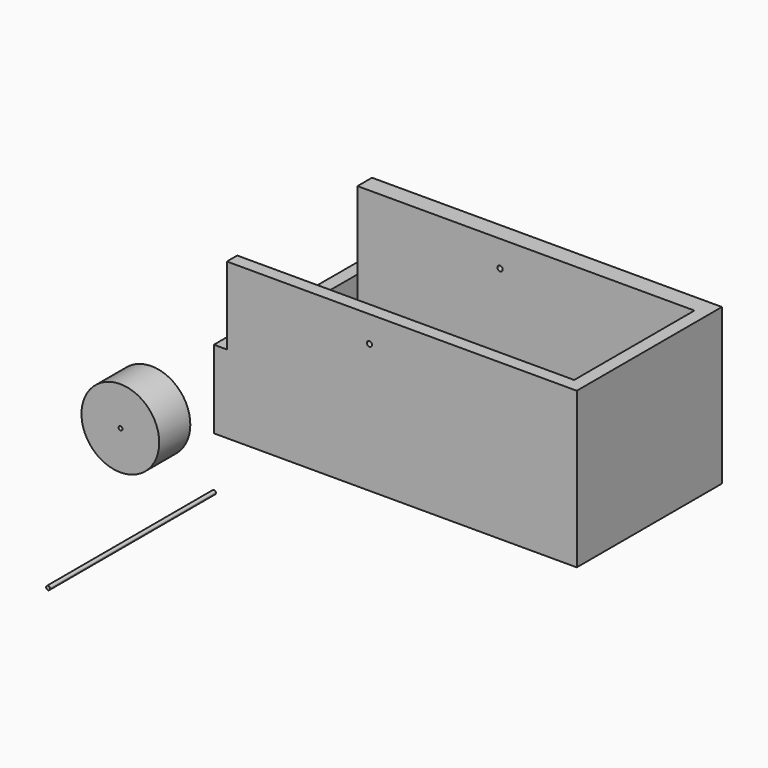
from build123d import *

# Parameters (mm, degrees)
F0_W      = 177.8
F0_H      = 76.2
F1_DEPTH  = 6.35
F2_W      = 6.35
F2_H      = 80.01
F2_H_2    = 8.89
F2_W_2    = 165.1
F3_DEPTH  = 76.2
F5_DEPTH  = 6.35
F6_W      = 88.9
F6_H      = 38.1
F7_DEPTH  = 6.35
F9_R      = 19.05
F10_DEPTH = 19.05
F11_DEPTH = 254
F14_DEPTH = 6.35
F15_DEPTH = 6.35
F16_R     = 1.27
F17_DEPTH = 76.2
F18_DEPTH = 76.2
F20_DEPTH = 101.6
F21_R     = 0.9525
F22_DEPTH = 76.2
F23_DEPTH = 101.6


with BuildPart() as f1:
    # F0 (on Front) → F1 (new body)
    with BuildSketch(Plane.XZ):
        with Locations((88.9, 38.1)):
            Rectangle(F0_W, F0_H)
    extrude(amount=-F1_DEPTH)

    # F2 (on Top) → F3 (join)
    with BuildSketch(Plane.XY):
        with Locations((3.175, 40.005)):
            Rectangle(F2_W, F2_H)
        with Locations((3.175, 84.455)):
            Rectangle(F2_W, F2_H_2)
        with Locations((88.9, 84.455)):
            Rectangle(F2_W_2, F2_H_2)
        with Locations((174.625, 40.005)):
            Rectangle(F2_W, F2_H)
        with Locations((174.625, 84.455)):
            Rectangle(F2_W, F2_H_2)
    extrude(amount=F3_DEPTH)

    # F4 (on Top) → F5 (join)
    with BuildSketch(Plane.XY):
        Polygon((37.7295836806, 0), (177.4295836806, 0), (177.5142401457, 88.7624174356), (37.7295836806, 88.7624174356), align=None)
    extrude(amount=F5_DEPTH)

    # F6 (on Right) → F7 (cut)
    with BuildSketch(Plane.YZ):
        with Locations((44.45, 57.15)):
            Rectangle(F6_W, F6_H)
    extrude(amount=-F7_DEPTH, mode=Mode.SUBTRACT)

    # F8 (on Front) → F11 (cut)
    with BuildSketch(Plane.XZ):
        with BuildLine():
            ThreePointArc((76.2, 64.6429983449), (75.3019743879, 62.4749727328), (77.47, 63.3729983449))
            ThreePointArc((77.47, 63.3729983449), (77.0980256121, 64.271023957), (76.2, 64.6429983449))
        make_face()
    extrude(amount=-F11_DEPTH, mode=Mode.SUBTRACT)

    # F12 (on Right) → F14 (cut)
    with BuildSketch(Plane.YZ):
        Polygon((0, 38.2467526443), (88.8998788732, 38.1), (88.9627729493, 76.2), (0, 76.2), align=None)
    extrude(amount=-F14_DEPTH, mode=Mode.SUBTRACT)

    # F13 (on face) → F15 (cut)
    with BuildSketch(Plane.YZ):
        Polygon((0, 76.2), (0, 38.2467526443), (88.8998788732, 38.1), (88.9627729493, 76.2), align=None)
    extrude(amount=F15_DEPTH, mode=Mode.SUBTRACT)

    # F16 (on Front) → F17 (cut)
    with BuildSketch(Plane.XZ):
        with Locations((-30.6824948639, 0)):
            Circle(F16_R)
    extrude(amount=-F17_DEPTH, mode=Mode.SUBTRACT)

    # F16 (on Front) → F18 (cut)
    with BuildSketch(Plane.XZ):
        with Locations((-30.6824948639, 0)):
            Circle(F16_R)
    extrude(amount=-F18_DEPTH, mode=Mode.SUBTRACT)

    # F21 (on Front) → F22 (cut)
    with BuildSketch(Plane.XZ):
        with Locations((-30.48, 0)):
            Circle(F21_R)
    extrude(amount=-F22_DEPTH, mode=Mode.SUBTRACT)


with BuildPart() as f10:
    # F9 (on Front) → F10 (new body)
    with BuildSketch(Plane.XZ):
        with Locations((-30.6069999933, 0)):
            Circle(F9_R)
    extrude(amount=F10_DEPTH)

    # F21 (on Front) → F23 (cut)
    with BuildSketch(Plane.XZ):
        with Locations((-30.48, 0)):
            Circle(F21_R)
    extrude(amount=F23_DEPTH, mode=Mode.SUBTRACT)


with BuildPart() as f20:
    # F19 (on Front) → F20 (new body)
    with BuildSketch(Plane.XZ):
        with BuildLine():
            ThreePointArc((0.9525, -25.4), (0.6735192091, -24.7264807909), (0, -24.4475))
            ThreePointArc((0, -24.4475), (-0.6735192091, -26.0735192091), (0.9525, -25.4))
        make_face()
    extrude(amount=F20_DEPTH)


solid = Compound([f1.part, f10.part, f20.part])
